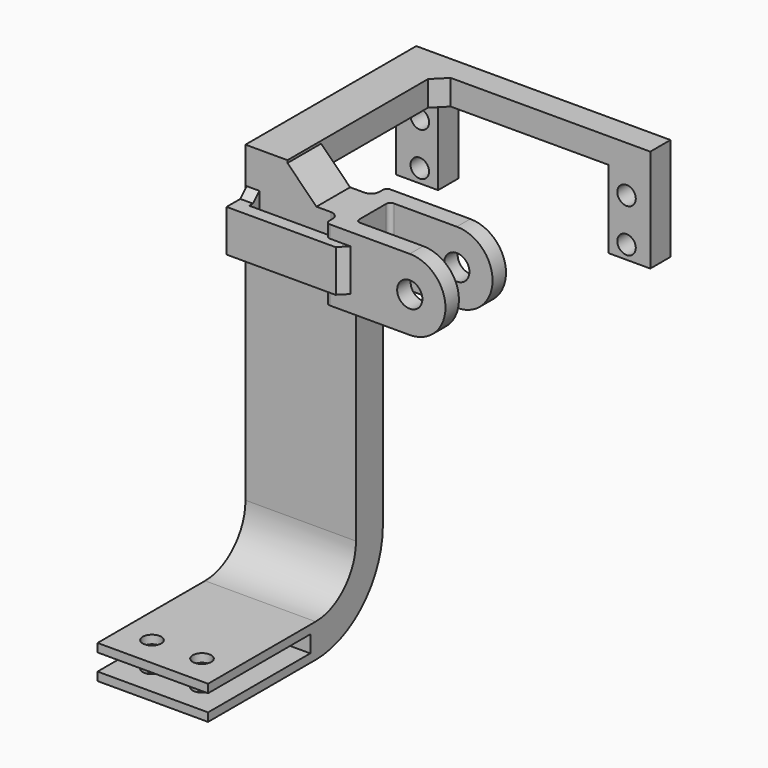
from build123d import *

# Parameters (mm, degrees)
CYLINDER034_R          = 2.2
CYLINDER034_DEPTH      = 26
ARRAY008_X_COUNT       = 2
ARRAY008_X_PITCH       = 11.9
BOX039_W               = 26.3
BOX039_H               = 84
BOX039_DEPTH           = 8
BOX038_W               = 26.3
BOX038_H               = 144.8
BOX038_DEPTH           = 4
PAD047_DEPTH           = 10
PAD048_DEPTH           = 6
BOX037_W               = 80
BOX037_H               = 100
BOX037_DEPTH           = 100
BOX036_W               = 40
BOX036_H               = 84
BOX036_DEPTH           = 10
PAD033_DEPTH           = 10
PAD032_DEPTH           = 10
BOX026_W               = 12
BOX026_H               = 10
BOX026_DEPTH           = 30
CYLINDER020_R          = 2.2
CYLINDER020_DEPTH      = 18
CYLINDER020_ROLL_ANGLE = -90
ARRAY006_X_COUNT       = 2
ARRAY006_X_PITCH       = 49.2
ARRAY006_Z_COUNT       = 2
ARRAY006_Z_PITCH       = 10.3
PAD021_DEPTH           = 6
PAD020_DEPTH           = 10
BOX027_W               = 12
BOX027_H               = 10
BOX027_DEPTH           = 30
CYLINDER021_R          = 2.2
CYLINDER021_DEPTH      = 18
CYLINDER021_ROLL_ANGLE = -90
ARRAY007_X_COUNT       = 2
ARRAY007_X_PITCH       = 49.2
ARRAY007_Z_COUNT       = 2
ARRAY007_Z_PITCH       = 10.3
PAD023_DEPTH           = 6
PAD022_DEPTH           = 10
BOX025_W               = 16.3
BOX025_H               = 10
BOX025_DEPTH           = 17
SKETCH018_R            = 3
PAD018_DEPTH           = 4
SKETCH019_R            = 3
PAD019_DEPTH           = 4
BOX024_W               = 20
BOX024_H               = 17
BOX024_DEPTH           = 10
FILLET007_R            = 1
FILLET007_ROLL_ANGLE   = 90
FILLET008_1_R          = 2
FILLET008_2_R          = 1
BOX018_W               = 16.3
BOX018_H               = 10
BOX018_DEPTH           = 17
SKETCH010_R            = 3
PAD010_DEPTH           = 4
SKETCH011_R            = 3
PAD011_DEPTH           = 4
BOX016_W               = 20
BOX016_H               = 17
BOX016_DEPTH           = 10
FILLET005_R            = 1
FILLET005_ROLL_ANGLE   = 90
FILLET006_1_R          = 2
FILLET006_2_R          = 1
PAD009_DEPTH           = 26.3
CHAMFER005_SIZE        = 1.9
FILLET016_1_R          = 1.5
FILLET016_2_R          = 1
PAD046_DEPTH           = 10


with BuildPart() as taladros_cadera:
    # Cylinder034 → Cylinder034 (new body)
    with BuildSketch(Plane(origin=(-9.2, -39.8, -80), x_dir=(1, 0, 0), z_dir=(0, 0, 1))):
        Circle(CYLINDER034_R)
    extrude(amount=CYLINDER034_DEPTH)

    # Array008 X: Taladros_cadera ×2


with BuildPart() as taladros_cadera_1:
    add(taladros_cadera.part)
    with Locations(*[(-i * ARRAY008_X_PITCH, 0, 0) for i in range(1, ARRAY008_X_COUNT)]):
        add(taladros_cadera.part)


with BuildPart() as cadera_base_centro:
    # Box039 → Box039 (new body)
    with BuildSketch(Plane(origin=(-28.3, -133, -70), x_dir=(1, 0, 0), z_dir=(0, 0, 1))):
        with Locations((13.15, 42)):
            Rectangle(BOX039_W, BOX039_H)
    extrude(amount=BOX039_DEPTH)


with BuildPart() as cadera_centro:
    # Box038 → Box038 (new body)
    with BuildSketch(Plane(origin=(-28.3, -163.4, -68), x_dir=(1, 0, 0), z_dir=(0, 0, 1))):
        with Locations((13.15, 72.4)):
            Rectangle(BOX038_W, BOX038_H)
    extrude(amount=BOX038_DEPTH)

    # Fusion009003043: union Cadera_base_centro
    add(cadera_base_centro.part)


with BuildPart() as cadera_centro_1:
    # Fusion009003043 placement: moved
    add(cadera_centro.part.moved(Location((0, 2, 0))))


with BuildPart() as obj1:
    # Sketch047 → Pad047 (new body)
    with BuildSketch(Plane(origin=(-28.3, 7, 18.5), x_dir=(0, 0, -1), z_dir=(1, 0, 0))):
        Polygon((0, 0), (0, 3), (3, 0), align=None)
    extrude(amount=PAD047_DEPTH)


with BuildPart() as obj2:
    # Sketch048 → Pad048 (new body)
    with BuildSketch(Plane(origin=(-18.3, 41.8, 18.5), x_dir=(0, -1, 0), z_dir=(0, 0, 1))):
        Polygon((0, 0), (0, 3), (3, 0), align=None)
    extrude(amount=PAD048_DEPTH)


with BuildPart() as obj3:
    # Box037 → Box037 (new body)
    with BuildSketch(Plane(origin=(-40, -229, -71), x_dir=(1, 0, 0), z_dir=(0, 0, 1))):
        with Locations((40, 50)):
            Rectangle(BOX037_W, BOX037_H)
    extrude(amount=BOX037_DEPTH)


with BuildPart() as corte_cadera:
    # Box036 → Box036 (new body)
    with BuildSketch(Plane(origin=(-33, -131, -71), x_dir=(1, 0, 0), z_dir=(0, 0, 1))):
        with Locations((20, 42)):
            Rectangle(BOX036_W, BOX036_H)
    extrude(amount=BOX036_DEPTH)


with BuildPart() as obj4:
    # Sketch033 → Pad033 (new body)
    with BuildSketch(Plane(origin=(-28, -127, 4), x_dir=(1, 0, 0), z_dir=(0, 0, 1))):
        Polygon((0, 0), (0, 6), (26, 6), (26, 0), (23, 0), (23, 3), (3, 3), (3, 0), align=None)
    extrude(amount=PAD033_DEPTH)


with BuildPart() as obj4_mirror:
    # Part__Mirroring009: instance of obj4
    add(obj4.part.mirror(Plane(origin=(0, 0, 0), x_dir=(1, 0, 0), z_dir=(0, 1, 0))))


with BuildPart() as obj4_mirror_1:
    # Part__Mirroring009 placement: moved
    add(obj4_mirror.part.moved(Location((0, -130, 0))))


with BuildPart() as obj5:
    # Sketch032 → Pad032 (new body)
    with BuildSketch(Plane(origin=(-28, -175, 4), x_dir=(1, 0, 0), z_dir=(0, 0, 1))):
        Polygon((0, 0), (0, 6), (26, 6), (26, 0), (23, 0), (23, 3), (3, 3), (3, 0), align=None)
    extrude(amount=PAD032_DEPTH)

    # Fusion009003040: union obj4_mirror
    add(obj4_mirror_1.part)


with BuildPart() as obj6:
    # Box026 → Box026 (new body)
    with BuildSketch(Plane(origin=(-29.5, -13, 0), x_dir=(1, 0, 0), z_dir=(0, 0, 1))):
        with Locations((6, 5)):
            Rectangle(BOX026_W, BOX026_H)
    extrude(amount=BOX026_DEPTH)


with BuildPart() as obj7:
    # Cylinder020 → Cylinder020 (new body)
    with BuildSketch(Plane.XY):
        Circle(CYLINDER020_R)
    extrude(amount=CYLINDER020_DEPTH)


with BuildPart() as obj7_1:
    # Cylinder020 roll: moved
    add(obj7.part.rotate(Axis((0, 0, 0), (1, 0, 0)), CYLINDER020_ROLL_ANGLE))


with BuildPart() as obj7_2:
    # Cylinder020 placement: moved
    add(obj7_1.part.moved(Location((150.075, 41, 13.5))))

    # Array006 X: obj7_2


with BuildPart() as obj7_3:
    add(obj7_2.part)
    with Locations(*[(i * ARRAY006_X_PITCH, 0, 0) for i in range(1, ARRAY006_X_COUNT)]):
        add(obj7_2.part)

    # Array006 Z: obj7_2


with BuildPart() as obj7_4:
    add(obj7_3.part)
    with Locations(*[(0, 0, -i * ARRAY006_Z_PITCH) for i in range(1, ARRAY006_Z_COUNT)]):
        add(obj7_3.part)


with BuildPart() as obj8:
    # Sketch021 → Pad021 (new body)
    with BuildSketch(Plane(origin=(10, 54.8, 0), x_dir=(1, 0, 0), z_dir=(0, -1, 0))):
        Polygon((0, 18.5), (0, 24.5), (50.5, 24.5), (50.5, 0), (40.5, 0), (40.5, 18.5), align=None)
    extrude(amount=PAD021_DEPTH)


with BuildPart() as obj9:
    # Sketch020 → Pad020 (new body)
    with BuildSketch(Plane.YZ):
        Polygon((14, 0), (0, 0), (0, 24.5), (54.8, 24.5), (54.8, 0), (48.8, 0), (48.8, 18.5), (14, 18.5), align=None)
    extrude(amount=PAD020_DEPTH)

    # Fusion009003025: union obj8
    add(obj8.part)


with BuildPart() as obj9_1:
    # Fusion009003025 placement: moved
    add(obj9.part.moved(Location((144.425, -3, 0))))

    # Cut016: cut obj7
    add(obj7_4.part, mode=Mode.SUBTRACT)


with BuildPart() as obj9_2:
    # Cut016 placement: moved
    add(obj9_1.part.moved(Location((-172.725, -4, 0))))

    # Cut017: cut obj6
    add(obj6.part, mode=Mode.SUBTRACT)


with BuildPart() as obj10:
    # Box027 → Box027 (new body)
    with BuildSketch(Plane(origin=(-29.5, -13, 0), x_dir=(1, 0, 0), z_dir=(0, 0, 1))):
        with Locations((6, 5)):
            Rectangle(BOX027_W, BOX027_H)
    extrude(amount=BOX027_DEPTH)


with BuildPart() as obj11:
    # Cylinder021 → Cylinder021 (new body)
    with BuildSketch(Plane.XY):
        Circle(CYLINDER021_R)
    extrude(amount=CYLINDER021_DEPTH)


with BuildPart() as obj11_1:
    # Cylinder021 roll: moved
    add(obj11.part.rotate(Axis((0, 0, 0), (1, 0, 0)), CYLINDER021_ROLL_ANGLE))


with BuildPart() as obj11_2:
    # Cylinder021 placement: moved
    add(obj11_1.part.moved(Location((150.075, 41, 13.5))))

    # Array007 X: obj11_2


with BuildPart() as obj11_3:
    add(obj11_2.part)
    with Locations(*[(i * ARRAY007_X_PITCH, 0, 0) for i in range(1, ARRAY007_X_COUNT)]):
        add(obj11_2.part)

    # Array007 Z: obj11_2


with BuildPart() as obj11_4:
    add(obj11_3.part)
    with Locations(*[(0, 0, -i * ARRAY007_Z_PITCH) for i in range(1, ARRAY007_Z_COUNT)]):
        add(obj11_3.part)


with BuildPart() as obj12:
    # Sketch023 → Pad023 (new body)
    with BuildSketch(Plane(origin=(10, 54.8, 0), x_dir=(1, 0, 0), z_dir=(0, -1, 0))):
        Polygon((0, 18.5), (0, 24.5), (50.5, 24.5), (50.5, 0), (40.5, 0), (40.5, 18.5), align=None)
    extrude(amount=PAD023_DEPTH)


with BuildPart() as obj13:
    # Sketch022 → Pad022 (new body)
    with BuildSketch(Plane.YZ):
        Polygon((14, 0), (0, 0), (0, 24.5), (54.8, 24.5), (54.8, 0), (48.8, 0), (48.8, 18.5), (14, 18.5), align=None)
    extrude(amount=PAD022_DEPTH)

    # Fusion009003026: union obj12
    add(obj12.part)


with BuildPart() as obj13_1:
    # Fusion009003026 placement: moved
    add(obj13.part.moved(Location((144.425, -3, 0))))

    # Cut018: cut obj11
    add(obj11_4.part, mode=Mode.SUBTRACT)


with BuildPart() as obj13_2:
    # Cut018 placement: moved
    add(obj13_1.part.moved(Location((-172.725, -4, 0))))

    # Cut019: cut obj10
    add(obj10.part, mode=Mode.SUBTRACT)


with BuildPart() as obj14:
    # Part__Mirroring: instance of obj13
    add(obj13_2.part.mirror(Plane(origin=(0, 0, 0), x_dir=(1, 0, 0), z_dir=(0, 1, 0))))


with BuildPart() as obj14_1:
    # Part__Mirroring placement: moved
    add(obj14.part.moved(Location((0, -178, 0))))


with BuildPart() as obj15:
    # Box025 → Box025 (new body)
    with BuildSketch(Plane(origin=(-26.3, -8, 0), x_dir=(1, 0, 0), z_dir=(0, 0, 1))):
        with Locations((8.15, 5)):
            Rectangle(BOX025_W, BOX025_H)
    extrude(amount=BOX025_DEPTH)


with BuildPart() as obj16:
    # Sketch018 → Pad018 (new body)
    with BuildSketch(Plane.XY):
        with BuildLine():
            Line((0, 17), (20, 17))
            ThreePointArc((20, 0), (28.500019, 8.5), (20, 17))
            Line((20, 0), (0, 0))
            Line((0, 0), (0, 17))
        make_face()
        with Locations((20.000019, 8.5)):
            Circle(SKETCH018_R, mode=Mode.SUBTRACT)
    extrude(amount=PAD018_DEPTH)


with BuildPart() as obj17:
    # Sketch019 → Pad019 (new body)
    with BuildSketch(Plane.XY.offset(14)):
        with BuildLine():
            Line((0, 17), (20, 17))
            ThreePointArc((20, 0), (28.500019, 8.5), (20, 17))
            Line((20, 0), (0, 0))
            Line((0, 0), (0, 17))
        make_face()
        with Locations((20.000019, 8.5)):
            Circle(SKETCH019_R, mode=Mode.SUBTRACT)
    extrude(amount=PAD019_DEPTH)


with BuildPart() as obj18:
    # Box024 → Box024 (new body)
    with BuildSketch(Plane(origin=(-16, 0, 4), x_dir=(1, 0, 0), z_dir=(0, 0, 1))):
        with Locations((10, 8.5)):
            Rectangle(BOX024_W, BOX024_H)
    extrude(amount=BOX024_DEPTH)

    # Fusion009003021: union obj16, obj17
    add(obj16.part)
    add(obj17.part)

    # Fillet007
    fillet007_edges = [obj18.edges().sort_by_distance(p)[0] for p in [
        (0, 8.5, 18),
        (-16, 0, 9),
        (-16, 17, 9),
        (0, 8.5, 0),
    ]]
    fillet(fillet007_edges, radius=FILLET007_R)


with BuildPart() as obj18_1:
    # Fillet007 roll: moved
    add(obj18.part.rotate(Axis((0, 0, 0), (1, 0, 0)), FILLET007_ROLL_ANGLE))


with BuildPart() as obj18_2:
    # Fillet007 placement: moved
    add(obj18_1.part.moved(Location((16, 15, 0))))

    # Fillet008 1
    fillet008_1_edges = [obj18_2.edges().sort_by_distance(p)[0] for p in [
        (16, 1, 8.5),
        (16, 11, 8.5),
    ]]
    fillet(fillet008_1_edges, radius=FILLET008_1_R)

    # Fillet008 2
    fillet008_2_edges = [obj18_2.edges().sort_by_distance(p)[0] for p in [
        (20, 1, 8.5),
        (20, 11, 8.5),
    ]]
    fillet(fillet008_2_edges, radius=FILLET008_2_R)


with BuildPart() as obj18_3:
    # Fillet008 placement: moved
    add(obj18_2.part.moved(Location((-20, -9, 0))))

    # Fusion009003022: union obj15
    add(obj15.part)


with BuildPart() as obj18_4:
    # Fusion009003022 placement: moved
    add(obj18_3.part.moved(Location((0, -182, 0))))


with BuildPart() as obj19:
    # Box018 → Box018 (new body)
    with BuildSketch(Plane(origin=(-26.3, -8, 0), x_dir=(1, 0, 0), z_dir=(0, 0, 1))):
        with Locations((8.15, 5)):
            Rectangle(BOX018_W, BOX018_H)
    extrude(amount=BOX018_DEPTH)


with BuildPart() as obj20:
    # Sketch010 → Pad010 (new body)
    with BuildSketch(Plane.XY):
        with BuildLine():
            Line((0, 17), (20, 17))
            ThreePointArc((20, 0), (28.500019, 8.5), (20, 17))
            Line((20, 0), (0, 0))
            Line((0, 0), (0, 17))
        make_face()
        with Locations((20.000019, 8.5)):
            Circle(SKETCH010_R, mode=Mode.SUBTRACT)
    extrude(amount=PAD010_DEPTH)


with BuildPart() as obj21:
    # Sketch011 → Pad011 (new body)
    with BuildSketch(Plane.XY.offset(14)):
        with BuildLine():
            Line((0, 17), (20, 17))
            ThreePointArc((20, 0), (28.500019, 8.5), (20, 17))
            Line((20, 0), (0, 0))
            Line((0, 0), (0, 17))
        make_face()
        with Locations((20.000019, 8.5)):
            Circle(SKETCH011_R, mode=Mode.SUBTRACT)
    extrude(amount=PAD011_DEPTH)


with BuildPart() as obj22:
    # Box016 → Box016 (new body)
    with BuildSketch(Plane(origin=(-16, 0, 4), x_dir=(1, 0, 0), z_dir=(0, 0, 1))):
        with Locations((10, 8.5)):
            Rectangle(BOX016_W, BOX016_H)
    extrude(amount=BOX016_DEPTH)

    # Fusion009003009: union obj20, obj21
    add(obj20.part)
    add(obj21.part)

    # Fillet005
    fillet005_edges = [obj22.edges().sort_by_distance(p)[0] for p in [
        (0, 8.5, 18),
        (-16, 0, 9),
        (-16, 17, 9),
        (0, 8.5, 0),
    ]]
    fillet(fillet005_edges, radius=FILLET005_R)


with BuildPart() as obj22_1:
    # Fillet005 roll: moved
    add(obj22.part.rotate(Axis((0, 0, 0), (1, 0, 0)), FILLET005_ROLL_ANGLE))


with BuildPart() as obj22_2:
    # Fillet005 placement: moved
    add(obj22_1.part.moved(Location((16, 15, 0))))

    # Fillet006 1
    fillet006_1_edges = [obj22_2.edges().sort_by_distance(p)[0] for p in [
        (16, 1, 8.5),
        (16, 11, 8.5),
    ]]
    fillet(fillet006_1_edges, radius=FILLET006_1_R)

    # Fillet006 2
    fillet006_2_edges = [obj22_2.edges().sort_by_distance(p)[0] for p in [
        (20, 1, 8.5),
        (20, 11, 8.5),
    ]]
    fillet(fillet006_2_edges, radius=FILLET006_2_R)


with BuildPart() as obj22_3:
    # Fillet006 placement: moved
    add(obj22_2.part.moved(Location((-20, -9, 0))))

    # Fusion009003020: union obj19
    add(obj19.part)

    # Fusion009003023: union obj18
    add(obj18_4.part)


with BuildPart() as obj23:
    # Sketch009 → Pad009 (new body)
    with BuildSketch(Plane(origin=(0, 0, 0), x_dir=(0, 1, 0), z_dir=(-1, 0, 0))):
        with BuildLine():
            Line((-188, 0), (-188, 50))
            ThreePointArc((-168, 70), (-182.142136, 64.142136), (-188, 50))
            Line((-168, 70), (-20, 70))
            ThreePointArc((0, 50), (-5.857864, 64.142136), (-20, 70))
            Line((0, 50), (0, 0))
            Line((0, 0), (-8, 0))
            Line((-8, 0), (-8, 50))
            ThreePointArc((-8, 50), (-11.514719, 58.485281), (-20, 62))
            Line((-20, 62), (-168, 62))
            ThreePointArc((-168, 62), (-176.485281, 58.485281), (-180, 50))
            Line((-180, 50), (-180, 0))
            Line((-180, 0), (-188, 0))
        make_face()
    extrude(amount=PAD009_DEPTH)

    # Fusion009003024: union obj22
    add(obj22_3.part)


with BuildPart() as obj23_1:
    # Fusion009003024 placement: moved
    add(obj23.part.moved(Location((-2, 5, 0))))

    # Fusion009003027: union obj9, obj14
    add(obj9_2.part)
    add(obj14_1.part)

    # Fusion009003041: union obj5
    add(obj5.part)

    # Chamfer005
    chamfer005_edges = [obj23_1.edges().sort_by_distance(p)[0] for p in [
        (-2, -7, 9),
        (-26.5, -3, 14),
        (-26.5, -3, 4),
        (-26.5, -175, 14),
        (-26.5, -175, 4),
        (-2, -171, 9),
    ]]
    chamfer(chamfer005_edges, length=CHAMFER005_SIZE)

    # Fillet016 1
    fillet016_1_edges = [obj23_1.edges().sort_by_distance(p)[0] for p in [
        (-18.3, 2, 17),
        (-18.3, -180, 17),
    ]]
    fillet(fillet016_1_edges, radius=FILLET016_1_R)

    # Fillet016 2
    fillet016_2_edges = [obj23_1.edges().sort_by_distance(p)[0] for p in [
        (-15.15, 5, 0),
        (-15.15, -183, 0),
    ]]
    fillet(fillet016_2_edges, radius=FILLET016_2_R)

    # Cut031: cut Corte_cadera
    add(corte_cadera.part, mode=Mode.SUBTRACT)

    # Cut032: cut obj3
    add(obj3.part, mode=Mode.SUBTRACT)


with BuildPart() as cadera_izquierda_full:
    # Sketch046 → Pad046 (new body)
    with BuildSketch(Plane(origin=(-18.4, 7, 17), x_dir=(1, 0, 0), z_dir=(0, -1, 0))):
        Polygon((0, 0), (0, 7), (7, 0), align=None)
    extrude(amount=PAD046_DEPTH)

    # Fusion009003046: union obj1, obj2, obj23
    add(obj1.part)
    add(obj2.part)
    add(obj23_1.part)

    # Cut033: cut Cadera_centro
    add(cadera_centro_1.part, mode=Mode.SUBTRACT)

    # Cut034: cut Taladros_cadera
    add(taladros_cadera_1.part, mode=Mode.SUBTRACT)


solid = cadera_izquierda_full.part
